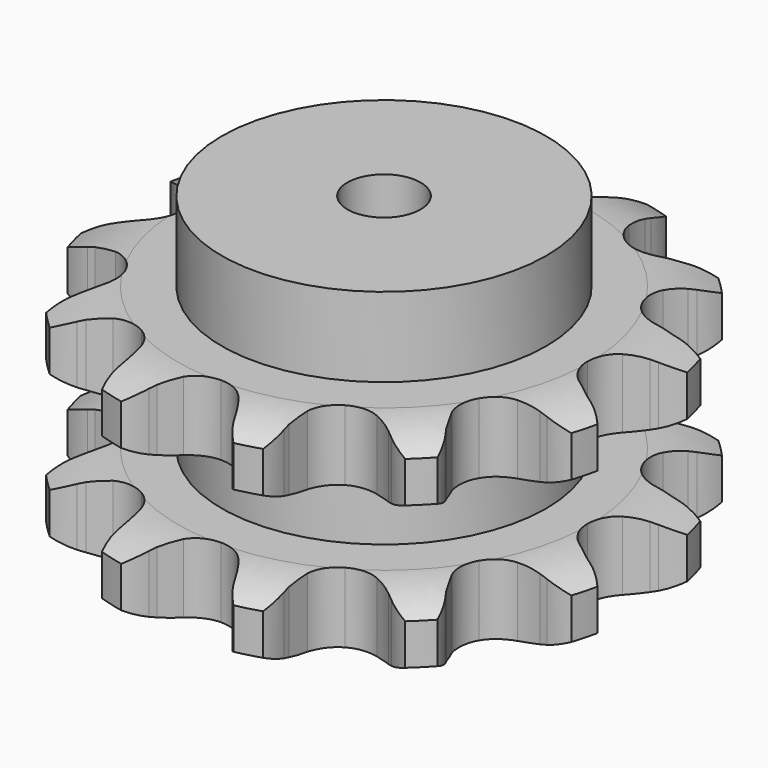
from build123d import *

# Parameters (mm, degrees)
PAD_DEPTH         = 87.4
SKETCH001_R       = 66.5
PAD001_DEPTH      = 120
SKETCH002_R       = 15
POCKET_DEPTH      = 0.001
POCKET_DEPTH_BACK = 120.001


with BuildPart() as part:
    # Sprocket → Pad (new body)
    with BuildSketch(Plane.XY):
        with BuildLine():
            ThreePointArc((-29.514219, 110.148564), (-22.468276, 105.446548), (-17.425036, 98.640668))
            Line((-17.425036, 98.640668), (-16.132291, 96.066601))
            ThreePointArc((-16.132291, 96.066601), (-13.917896, 92.231156), (-11.273206, 88.678721))
            ThreePointArc((-11.273206, 88.678721), (-6.219303, 84.800725), (0, 83.421939))
            ThreePointArc((0, 83.421939), (6.219303, 84.800725), (11.273206, 88.678721))
            ThreePointArc((11.273206, 88.678721), (13.917896, 92.231156), (16.132291, 96.066601))
            Line((16.132291, 96.066601), (17.425036, 98.640668))
            ThreePointArc((17.425036, 98.640668), (22.468276, 105.446548), (29.514219, 110.148564))
            ThreePointArc((29.514219, 110.148564), (33.265176, 102.553527), (34.22981, 94.137842))
            Line((34.22981, 94.137842), (34.062327, 91.262262))
            ThreePointArc((34.062327, 91.262262), (34.062327, 86.833472), (34.576478, 82.434628))
            ThreePointArc((34.576478, 82.434628), (37.014288, 76.549234), (41.710969, 72.245518))
            ThreePointArc((41.710969, 72.245518), (47.786437, 70.329931), (54.102243, 71.161422))
            Line((54.102243, 71.161422), (62.004274, 75.129971))
            ThreePointArc((62.004274, 75.129971), (63.192596, 75.94415), (64.410858, 76.712807))
            ThreePointArc((64.410858, 76.712807), (72.181372, 80.085251), (80.634345, 80.634345))
            ThreePointArc((80.634345, 80.634345), (80.085251, 72.181372), (76.712807, 64.410858))
            Line((76.712807, 64.410858), (75.129971, 62.004274))
            ThreePointArc((75.129971, 62.004274), (72.915576, 58.168829), (71.161422, 54.102243))
            ThreePointArc((71.161422, 54.102243), (70.329931, 47.786437), (72.245518, 41.710969))
            ThreePointArc((72.245518, 41.710969), (76.549234, 37.014288), (82.434628, 34.576478))
            Line((82.434628, 34.576478), (91.262262, 34.062327))
            ThreePointArc((91.262262, 34.062327), (92.698468, 34.173265), (94.137842, 34.22981))
            ThreePointArc((94.137842, 34.22981), (102.553527, 33.265176), (110.148564, 29.514219))
            ThreePointArc((110.148564, 29.514219), (105.446548, 22.468276), (98.640668, 17.425036))
            Line((98.640668, 17.425036), (96.066601, 16.132291))
            ThreePointArc((96.066601, 16.132291), (92.231156, 13.917896), (88.678721, 11.273206))
            ThreePointArc((88.678721, 11.273206), (84.800725, 6.219303), (83.421939, 0))
            ThreePointArc((83.421939, 0), (84.800725, -6.219303), (88.678721, -11.273206))
            Line((88.678721, -11.273206), (96.066601, -16.132291))
            ThreePointArc((96.066601, -16.132291), (97.365861, -16.754319), (98.640668, -17.425036))
            ThreePointArc((98.640668, -17.425036), (105.446548, -22.468276), (110.148564, -29.514219))
            ThreePointArc((110.148564, -29.514219), (102.553527, -33.265176), (94.137842, -34.22981))
            Line((94.137842, -34.22981), (91.262262, -34.062327))
            ThreePointArc((91.262262, -34.062327), (86.833472, -34.062327), (82.434628, -34.576478))
            ThreePointArc((82.434628, -34.576478), (76.549234, -37.014288), (72.245518, -41.710969))
            ThreePointArc((72.245518, -41.710969), (70.329931, -47.786437), (71.161422, -54.102243))
            Line((71.161422, -54.102243), (75.129971, -62.004274))
            ThreePointArc((75.129971, -62.004274), (75.94415, -63.192596), (76.712807, -64.410858))
            ThreePointArc((76.712807, -64.410858), (80.085251, -72.181372), (80.634345, -80.634345))
            ThreePointArc((80.634345, -80.634345), (72.181372, -80.085251), (64.410858, -76.712807))
            Line((64.410858, -76.712807), (62.004274, -75.129971))
            ThreePointArc((62.004274, -75.129971), (58.168829, -72.915576), (54.102243, -71.161422))
            ThreePointArc((54.102243, -71.161422), (47.786437, -70.329931), (41.710969, -72.245518))
            ThreePointArc((41.710969, -72.245518), (37.014288, -76.549234), (34.576478, -82.434628))
            Line((34.576478, -82.434628), (34.062327, -91.262262))
            ThreePointArc((34.062327, -91.262262), (34.173265, -92.698468), (34.22981, -94.137842))
            ThreePointArc((34.22981, -94.137842), (33.265176, -102.553527), (29.514219, -110.148564))
            ThreePointArc((29.514219, -110.148564), (22.468276, -105.446548), (17.425036, -98.640668))
            Line((17.425036, -98.640668), (16.132291, -96.066601))
            ThreePointArc((16.132291, -96.066601), (13.917896, -92.231156), (11.273206, -88.678721))
            ThreePointArc((11.273206, -88.678721), (6.219303, -84.800725), (0, -83.421939))
            ThreePointArc((0, -83.421939), (-6.219303, -84.800725), (-11.273206, -88.678721))
            Line((-11.273206, -88.678721), (-16.132291, -96.066601))
            ThreePointArc((-16.132291, -96.066601), (-16.754319, -97.365861), (-17.425036, -98.640668))
            ThreePointArc((-17.425036, -98.640668), (-22.468276, -105.446548), (-29.514219, -110.148564))
            ThreePointArc((-29.514219, -110.148564), (-33.265176, -102.553527), (-34.22981, -94.137842))
            Line((-34.22981, -94.137842), (-34.062327, -91.262262))
            ThreePointArc((-34.062327, -91.262262), (-34.062327, -86.833472), (-34.576478, -82.434628))
            ThreePointArc((-34.576478, -82.434628), (-37.014288, -76.549234), (-41.710969, -72.245518))
            ThreePointArc((-41.710969, -72.245518), (-47.786437, -70.329931), (-54.102243, -71.161422))
            Line((-54.102243, -71.161422), (-62.004274, -75.129971))
            ThreePointArc((-62.004274, -75.129971), (-63.192596, -75.94415), (-64.410858, -76.712807))
            ThreePointArc((-64.410858, -76.712807), (-72.181372, -80.085251), (-80.634345, -80.634345))
            ThreePointArc((-80.634345, -80.634345), (-80.085251, -72.181372), (-76.712807, -64.410858))
            Line((-76.712807, -64.410858), (-75.129971, -62.004274))
            ThreePointArc((-75.129971, -62.004274), (-72.915576, -58.168829), (-71.161422, -54.102243))
            ThreePointArc((-71.161422, -54.102243), (-70.329931, -47.786437), (-72.245518, -41.710969))
            ThreePointArc((-72.245518, -41.710969), (-76.549234, -37.014288), (-82.434628, -34.576478))
            Line((-82.434628, -34.576478), (-91.262262, -34.062327))
            ThreePointArc((-91.262262, -34.062327), (-92.698468, -34.173265), (-94.137842, -34.22981))
            ThreePointArc((-94.137842, -34.22981), (-102.553527, -33.265176), (-110.148564, -29.514219))
            ThreePointArc((-110.148564, -29.514219), (-105.446548, -22.468276), (-98.640668, -17.425036))
            Line((-98.640668, -17.425036), (-96.066601, -16.132291))
            ThreePointArc((-96.066601, -16.132291), (-92.231156, -13.917896), (-88.678721, -11.273206))
            ThreePointArc((-88.678721, -11.273206), (-84.800725, -6.219303), (-83.421939, 0))
            ThreePointArc((-83.421939, 0), (-84.800725, 6.219303), (-88.678721, 11.273206))
            Line((-88.678721, 11.273206), (-96.066601, 16.132291))
            ThreePointArc((-96.066601, 16.132291), (-97.365861, 16.754319), (-98.640668, 17.425036))
            ThreePointArc((-98.640668, 17.425036), (-105.446548, 22.468276), (-110.148564, 29.514219))
            ThreePointArc((-110.148564, 29.514219), (-102.553527, 33.265176), (-94.137842, 34.22981))
            Line((-94.137842, 34.22981), (-91.262262, 34.062327))
            ThreePointArc((-91.262262, 34.062327), (-86.833472, 34.062327), (-82.434628, 34.576478))
            ThreePointArc((-82.434628, 34.576478), (-76.549234, 37.014288), (-72.245518, 41.710969))
            ThreePointArc((-72.245518, 41.710969), (-70.329931, 47.786437), (-71.161422, 54.102243))
            Line((-71.161422, 54.102243), (-75.129971, 62.004274))
            ThreePointArc((-75.129971, 62.004274), (-75.94415, 63.192596), (-76.712807, 64.410858))
            ThreePointArc((-76.712807, 64.410858), (-80.085251, 72.181372), (-80.634345, 80.634345))
            ThreePointArc((-80.634345, 80.634345), (-72.181372, 80.085251), (-64.410858, 76.712807))
            Line((-64.410858, 76.712807), (-62.004274, 75.129971))
            ThreePointArc((-62.004274, 75.129971), (-58.168829, 72.915576), (-54.102243, 71.161422))
            ThreePointArc((-54.102243, 71.161422), (-47.786437, 70.329931), (-41.710969, 72.245518))
            ThreePointArc((-41.710969, 72.245518), (-37.014288, 76.549234), (-34.576478, 82.434628))
            Line((-34.576478, 82.434628), (-34.062327, 91.262262))
            ThreePointArc((-34.062327, 91.262262), (-34.173265, 92.698468), (-34.22981, 94.137842))
            ThreePointArc((-34.22981, 94.137842), (-33.265176, 102.553527), (-29.514219, 110.148564))
        make_face()
    extrude(amount=PAD_DEPTH)

    # Sketch → Groove (revolve, cut)
    with BuildSketch(Plane.XZ):
        with BuildLine():
            ThreePointArc((84.4, 0), (96.769317, 1.522732), (108.4, 6))
            Line((108.4, 6), (108.4, 22.8))
            ThreePointArc((108.4, 22.8), (96.769317, 27.277268), (84.4, 28.8))
            Line((66.5, 28.8), (84.4, 28.8))
            Line((66.5, 58.6), (66.5, 28.8))
            Line((84.4, 58.6), (66.5, 58.6))
            ThreePointArc((84.4, 58.6), (96.769317, 60.122732), (108.4, 64.6))
            Line((108.4, 64.6), (108.4, 81.4))
            ThreePointArc((108.4, 81.4), (96.769317, 85.877268), (84.4, 87.4))
            Line((84.4, 87.4), (118.4, 87.4))
            Line((118.4, 87.4), (118.4, 0))
            Line((84.4, 0), (118.4, 0))
        make_face()
    revolve(axis=Axis((0, 0, 0), (0, 0, 1)), mode=Mode.SUBTRACT)

    # Sketch001 → Pad001 (join)
    with BuildSketch(Plane.XY):
        Circle(SKETCH001_R)
    extrude(amount=PAD001_DEPTH)

    # Sketch002 → Pocket (cut, two sides)
    with BuildSketch(Plane.XY) as pocket_sk:
        Circle(SKETCH002_R)
    extrude(amount=-POCKET_DEPTH, mode=Mode.SUBTRACT)
    extrude(pocket_sk.sketch, amount=POCKET_DEPTH_BACK, mode=Mode.SUBTRACT)


solid = part.part
